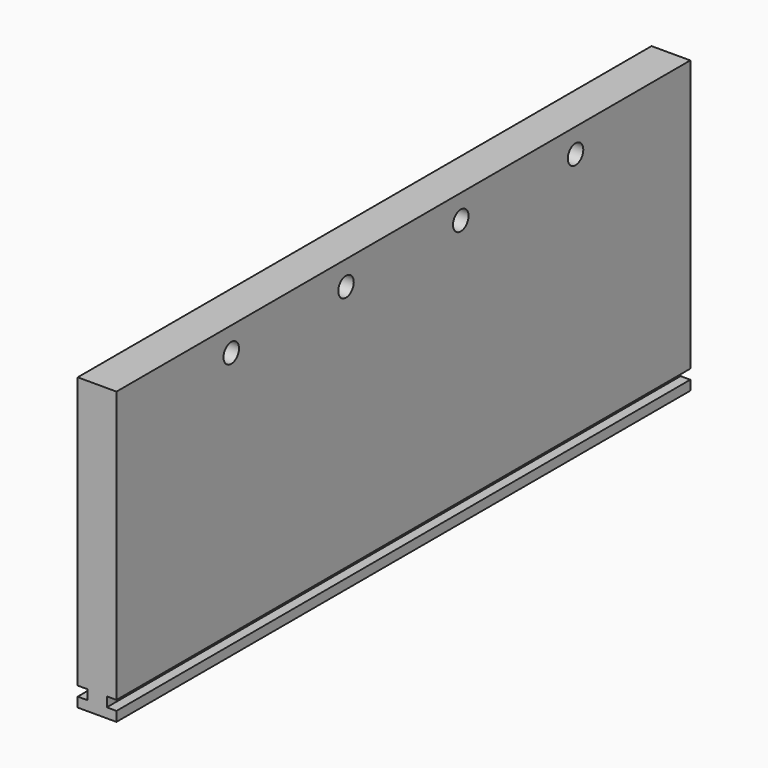
from build123d import *

# Parameters (mm, degrees)
F0_W     = 370
F0_H     = 150
F0_R     = 5
F1_DEPTH = 10
F2_W     = 370
F2_H     = 5
F3_DEPTH = 5


with BuildPart() as f1:
    # F0 (on Right) → F1 (new body)
    with BuildSketch(Plane.YZ):
        with Locations((-14.059471, -33.810468)):
            Rectangle(F0_W, F0_H)
        with Locations((-125.059471, 28.689532)):
            Circle(F0_R, mode=Mode.SUBTRACT)
        with Locations((-51.059471, 28.689532)):
            Circle(F0_R, mode=Mode.SUBTRACT)
        with Locations((22.940529, 28.689532)):
            Circle(F0_R, mode=Mode.SUBTRACT)
        with Locations((96.940529, 28.689532)):
            Circle(F0_R, mode=Mode.SUBTRACT)
    extrude(amount=F1_DEPTH)

    # F2 (on face) → F3 (cut)
    with BuildSketch(Plane(origin=(0, 0, 0), x_dir=(0, -1, 0), z_dir=(-1, 0, 0))):
        with Locations((14.059471, -101.310468)):
            Rectangle(F2_W, F2_H)
    extrude(amount=-F3_DEPTH, mode=Mode.SUBTRACT)

    # F4: F1 across face


with BuildPart() as f1_1:
    add(f1.part)
    add(f1.part.mirror(Plane(origin=(10, -14.059471, -34.166265), x_dir=(0, 1, 0), z_dir=(1, 0, 0))))


solid = f1_1.part
